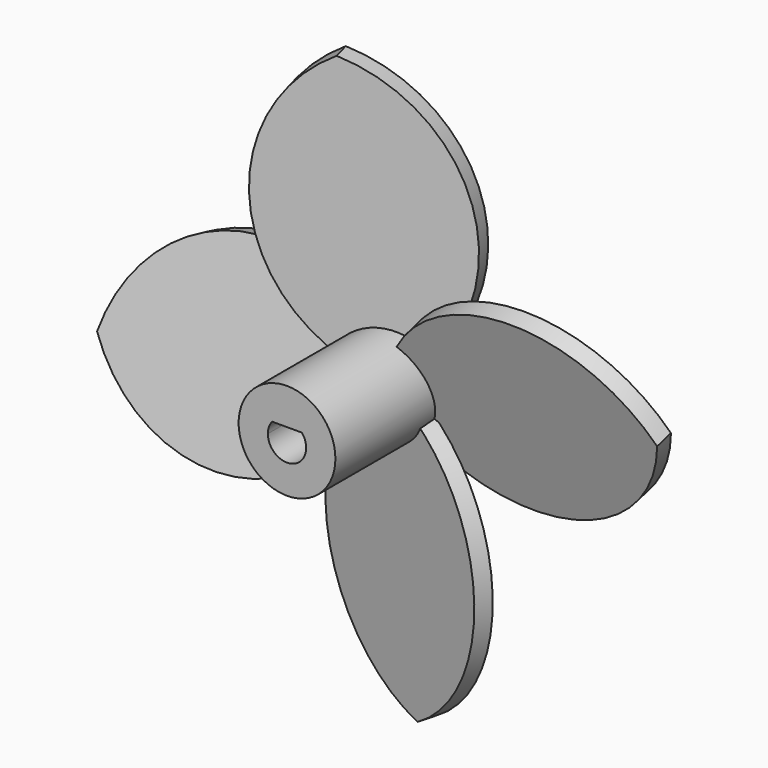
from build123d import *

# Parameters (mm, degrees)
F0_R      = 4.329036
F1_DEPTH  = 12.7
F5_DEPTH  = 1.6002
F6_COUNT  = 4
F8_DEPTH  = 25.4
F1_FACE_R = 4.329036
F9_DEPTH  = 25.4
F11_DEPTH = 25.4


with BuildPart() as f1:
    # F0 (on Front) → F1 (new body)
    with BuildSketch(Plane.XZ):
        Circle(F0_R)
        with BuildLine():
            ThreePointArc((-1.7145, 0), (-1.616045, 0.572633), (-1.331987, 1.0795))
            Line((-1.331987, 1.0795), (1.331987, 1.0795))
            ThreePointArc((1.331987, 1.0795), (1.616045, 0.572633), (1.7145, 0))
            ThreePointArc((1.7145, 0), (0, -1.7145), (-1.7145, 0))
        make_face(mode=Mode.SUBTRACT)
    extrude(amount=F1_DEPTH)


with BuildPart() as f5:
    # F4 (on face) → F5 (new body)
    with BuildSketch(Plane(origin=(0, 0, 0), x_dir=(-1, 0, 0), z_dir=(0, 0.965926, 0.258819))):
        with BuildLine():
            ThreePointArc((-25.05391, 4.178705), (-13.959651, -6.50054), (0, 0))
            Line((0, 0), (-25.05391, 4.178705))
        make_face()
        with BuildLine():
            Line((-25.05391, 4.178705), (0, 0))
            ThreePointArc((0, 0), (-11.09426, 10.679245), (-25.05391, 4.178705))
        make_face()
    extrude(amount=-F5_DEPTH)


with BuildPart() as f6_1:
    # F6: instance of F5
    add(f5.part.rotate(Axis((0, 0, 0), (0, 1, 0)), 1 * 360 / F6_COUNT))


with BuildPart() as f6_2:
    # F6: instance of F5
    add(f5.part.rotate(Axis((0, 0, 0), (0, 1, 0)), 2 * 360 / F6_COUNT))


with BuildPart() as f6_3:
    # F6: instance of F5
    add(f5.part.rotate(Axis((0, 0, 0), (0, 1, 0)), 3 * 360 / F6_COUNT))


with BuildPart() as f8_tool:
    # F7 (on face) → F8 (new body)
    with BuildSketch(Plane(origin=(0, 0, 0), x_dir=(-1, 0, 0), z_dir=(0, 1, 0))):
        with BuildLine():
            ThreePointArc((-1.331987, 1.0795), (-0.572633, -1.616045), (1.7145, 0))
            ThreePointArc((1.7145, 0), (1.616045, 0.572633), (1.331987, 1.0795))
            Line((1.331987, 1.0795), (-1.331987, 1.0795))
        make_face()
    extrude(amount=-F8_DEPTH)


with BuildPart() as f5_1:
    add(f5.part)

    # F8: cut by f8_tool
    add(f8_tool.part, mode=Mode.SUBTRACT)


with BuildPart() as f6_1_1:
    add(f6_1.part)

    # F8: cut by f8_tool
    add(f8_tool.part, mode=Mode.SUBTRACT)


with BuildPart() as f6_2_1:
    add(f6_2.part)

    # F8: cut by f8_tool
    add(f8_tool.part, mode=Mode.SUBTRACT)


with BuildPart() as f6_3_1:
    add(f6_3.part)

    # F8: cut by f8_tool
    add(f8_tool.part, mode=Mode.SUBTRACT)


with BuildPart() as f9_tool:
    # F1_face (on face) → F9 (new body)
    with BuildSketch(Plane(origin=(0, 0, 0.031002), x_dir=(1, 0, 0), z_dir=(0, 1, 0))):
        with Locations((0, 0.031002)):
            Circle(F1_FACE_R)
        with BuildLine():
            ThreePointArc((-1.7145, 0.031002), (0.572633, 1.647047), (1.331987, -1.048498))
            Line((1.331987, -1.048498), (-1.331987, -1.048498))
            ThreePointArc((-1.331987, -1.048498), (-1.616045, -0.541631), (-1.7145, 0.031002))
        make_face(mode=Mode.SUBTRACT)
    extrude(amount=F9_DEPTH)


with BuildPart() as f5_2:
    add(f5_1.part)

    # F9: cut by f9_tool
    add(f9_tool.part, mode=Mode.SUBTRACT)


with BuildPart() as f6_1_2:
    add(f6_1_1.part)

    # F9: cut by f9_tool
    add(f9_tool.part, mode=Mode.SUBTRACT)


with BuildPart() as f6_2_2:
    add(f6_2_1.part)

    # F9: cut by f9_tool
    add(f9_tool.part, mode=Mode.SUBTRACT)


with BuildPart() as f6_3_2:
    add(f6_3_1.part)

    # F9: cut by f9_tool
    add(f9_tool.part, mode=Mode.SUBTRACT)


with BuildPart() as f11_tool:
    # F10 (on face) → F11 (new body)
    with BuildSketch(Plane(origin=(0, 0, 0), x_dir=(-1, 0, 0), z_dir=(0, 1, 0))):
        with BuildLine():
            ThreePointArc((-1.331987, 1.0795), (-0.572633, -1.616045), (1.7145, 0))
            ThreePointArc((1.7145, 0), (1.616045, 0.572633), (1.331987, 1.0795))
            Line((1.331987, 1.0795), (-1.331987, 1.0795))
        make_face()
    extrude(amount=F11_DEPTH)


with BuildPart() as f5_3:
    add(f5_2.part)

    # F11: cut by f11_tool
    add(f11_tool.part, mode=Mode.SUBTRACT)


with BuildPart() as f6_1_3:
    add(f6_1_2.part)

    # F11: cut by f11_tool
    add(f11_tool.part, mode=Mode.SUBTRACT)


with BuildPart() as f6_2_3:
    add(f6_2_2.part)

    # F11: cut by f11_tool
    add(f11_tool.part, mode=Mode.SUBTRACT)


with BuildPart() as f6_3_3:
    add(f6_3_2.part)

    # F11: cut by f11_tool
    add(f11_tool.part, mode=Mode.SUBTRACT)


solid = Compound([f1.part, f5_3.part, f6_1_3.part, f6_2_3.part, f6_3_3.part])
